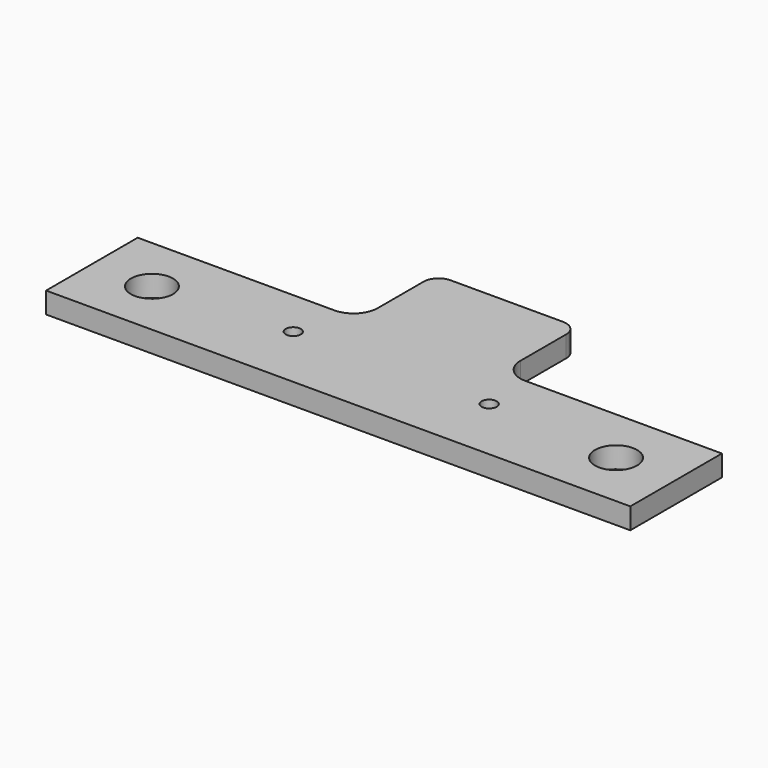
from build123d import *

# Parameters (mm, degrees)
CYLINDER005_R     = 2.5
CYLINDER005_DEPTH = 90
CYLINDER004_R     = 7
CYLINDER004_DEPTH = 150
CYLINDER003_R     = 11
CYLINDER003_DEPTH = 31
PAD010_DEPTH      = 7


with BuildPart() as vis_d:
    # Cylinder005 → Cylinder005 (new body)
    with BuildSketch(Plane(origin=(32.5, 0, -12), x_dir=(1, 0, 0), z_dir=(0, 0, 1))):
        Circle(CYLINDER005_R)
    extrude(amount=CYLINDER005_DEPTH)


with BuildPart() as vis:
    # Part__Mirroring003: instance of vis_d
    add(vis_d.part.mirror(Plane(origin=(0, 0, 0), x_dir=(0, -1, 0), z_dir=(1, 0, 0))))

    # Fusion005: union vis_d
    add(vis_d.part)


with BuildPart() as axe:
    # Cylinder004 → Cylinder004 (new body)
    with BuildSketch(Plane.XY.offset(-50)):
        Circle(CYLINDER004_R)
    extrude(amount=CYLINDER004_DEPTH)


with BuildPart() as clone_of_ball_slider:
    # Cylinder003 → Cylinder003 (new body)
    with BuildSketch(Plane.XY):
        Circle(CYLINDER003_R)
    extrude(amount=CYLINDER003_DEPTH)

    # Fusion003: union axe
    add(axe.part)


with BuildPart() as clone_of_ball_slider_1:
    # Clone017 placement: moved
    add(clone_of_ball_slider.part.moved(Location((-77, -3, 13))))


with BuildPart() as part_mirroring002:
    # Part__Mirroring002: instance of Clone of ball slider
    add(clone_of_ball_slider_1.part.mirror(Plane(origin=(0, 0, 0), x_dir=(0, -1, 0), z_dir=(1, 0, 0))))


with BuildPart() as vis_sliders:
    # Fusion004 base: copy of Clone of ball slider
    add(clone_of_ball_slider_1.part)

    # Fusion004: union Part__Mirroring002
    add(part_mirroring002.part)

    # Fusion006: union vis
    add(vis.part)


with BuildPart() as cut006006:
    # Sketch → Pad010 (new body)
    with BuildSketch(Plane.XY.offset(25)):
        with BuildLine():
            Line((96.936684, 16), (96.936684, -22))
            Line((96.936684, -22), (-96.936684, -22))
            Line((-96.936684, -22), (-96.936684, 16))
            Line((-96.936684, 16), (-31.668603, 16))
            ThreePointArc((-31.668603, 16), (-26.011749, 18.343146), (-23.668603, 24))
            Line((-23.668603, 24), (-23.668603, 42.983311))
            ThreePointArc((-18.668603, 47.983311), (-22.204137, 46.518845), (-23.668603, 42.983311))
            Line((-18.668603, 47.983311), (18.668603, 47.983311))
            ThreePointArc((23.668603, 42.983311), (22.204137, 46.518845), (18.668603, 47.983311))
            Line((23.668603, 42.983311), (23.668603, 24))
            ThreePointArc((23.668603, 24), (26.011749, 18.343146), (31.668603, 16))
            Line((31.668603, 16), (96.936684, 16))
        make_face()
    extrude(amount=PAD010_DEPTH)


with BuildPart() as cut006006_1:
    # Clone016 placement: moved
    add(cut006006.part.moved(Location((0, 0, -32))))

    # Cut006006: cut vis sliders
    add(vis_sliders.part, mode=Mode.SUBTRACT)


solid = cut006006_1.part
